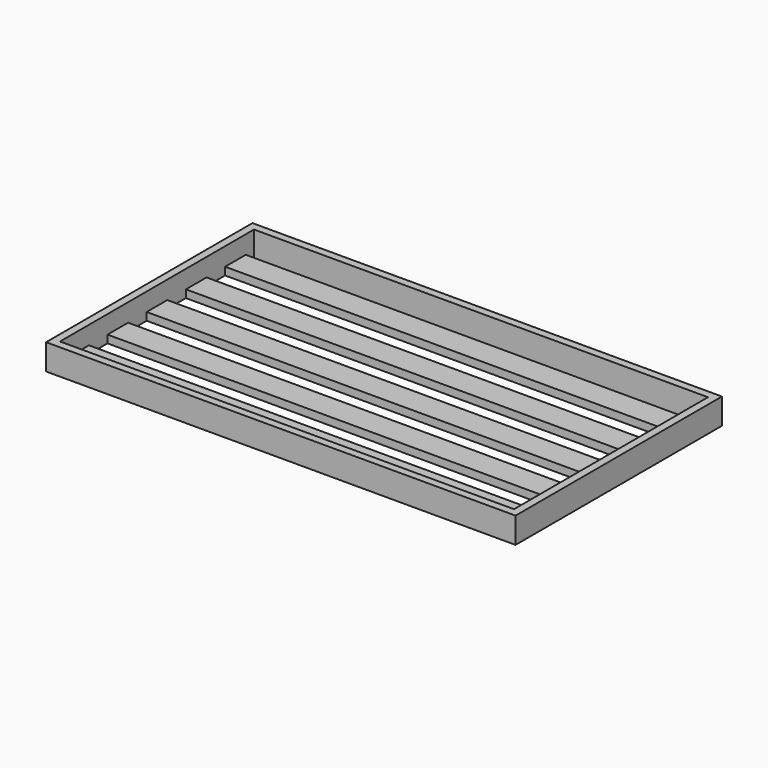
from build123d import *

# Parameters (mm, degrees)
F0_W     = 910
F0_H     = 500
F0_W_2   = 880
F0_H_2   = 470
F1_DEPTH = 50
F2_DEPTH = 15
F3_W     = 880
F3_H     = 45
F3_H_2   = 20
F4_DEPTH = 15


with BuildPart() as f1:
    # F0 (on Top) → F1 (new body)
    with BuildSketch(Plane.XY):
        Rectangle(F0_W, F0_H)
        Rectangle(F0_W_2, F0_H_2, mode=Mode.SUBTRACT)
    extrude(amount=F1_DEPTH)

    # F0 (on Top) → F2 (join)
    with BuildSketch(Plane.XY):
        Rectangle(F0_W_2, F0_H_2)
    extrude(amount=F2_DEPTH)

    # F3 (on face) → F4 (cut, through all)
    with BuildSketch(Plane.XY.offset(15)):
        with Locations((0, 142.5)):
            Rectangle(F3_W, F3_H)
        with Locations((0, 47.5)):
            Rectangle(F3_W, F3_H)
        with Locations((0, -47.5)):
            Rectangle(F3_W, F3_H)
        with Locations((0, -142.5)):
            Rectangle(F3_W, F3_H)
        with Locations((0, 225)):
            Rectangle(F3_W, F3_H_2)
        with Locations((0, -225)):
            Rectangle(F3_W, F3_H_2)
    extrude(amount=-F4_DEPTH, mode=Mode.SUBTRACT)


solid = f1.part
